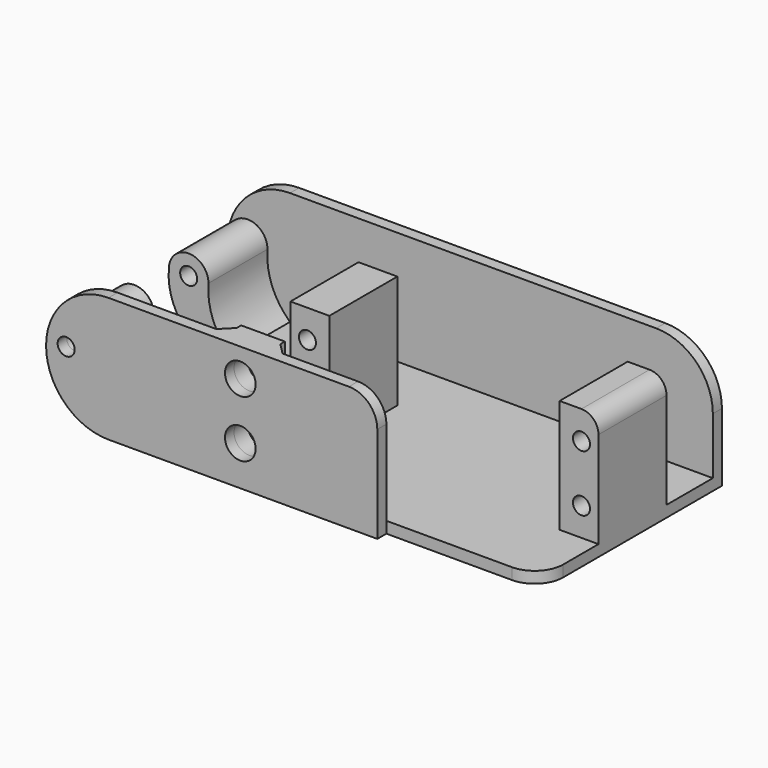
from build123d import *

# Parameters (mm, degrees)
SKETCH_W        = 74.53746
SKETCH_H        = 38
PAD_DEPTH       = 2
SKETCH001_W     = 6.85
SKETCH001_H     = 15
PAD001_DEPTH    = 20
SKETCH002_R     = 1.5
POCKET_DEPTH    = 17
SKETCH003_R     = 1.5
PAD002_DEPTH    = 2
SKETCH004_R     = 2.95
PAD003_DEPTH    = 5
SKETCH005_R     = 2.7
SKETCH005_R_2   = 1.5
PAD004_DEPTH    = 2
SKETCH006_W     = 7.7
SKETCH006_H     = 20
SKETCH006_R     = 2.7
PAD005_DEPTH    = 3
SKETCH007_R     = 1.5
PAD006_DEPTH    = 13
SKETCH008_R     = 1.5
PAD007_DEPTH    = 13
FILLET_R        = 3
FILLET001_R     = 5
FILLET002_R     = 1
CHAMFER_SIZE    = 2
CHAMFER001_SIZE = 2


with BuildPart() as body:
    # Sketch → Pad (new body)
    with BuildSketch(Plane.XY):
        Rectangle(SKETCH_W, SKETCH_H)
    extrude(amount=PAD_DEPTH)

    # Sketch001 (on Face6 of Pad) → Pad001 (join)
    with BuildSketch(Plane.XY.offset(2)):
        with Locations((33.84373, -1.3)):
            Rectangle(SKETCH001_W, SKETCH001_H)
        with Locations((-13.60627, -1.3)):
            Rectangle(SKETCH001_W, SKETCH001_H)
    extrude(amount=PAD001_DEPTH)

    # Sketch002 (on Face12 of Pad001) → Pocket (cut)
    with BuildSketch(Plane.XZ.offset(8.8)):
        with Locations((-14.03127, 17)):
            Circle(SKETCH002_R)
        with Locations((-14.03127, 7)):
            Circle(SKETCH002_R)
        with Locations((34.26873, 17)):
            Circle(SKETCH002_R)
        with Locations((34.26873, 7)):
            Circle(SKETCH002_R)
    extrude(amount=-POCKET_DEPTH, mode=Mode.SUBTRACT)

    # Sketch003 (on Face6 of Pocket) → Pad002 (join)
    with BuildSketch(Plane.XZ.offset(19)):
        with BuildLine():
            Line((37.26873, 0), (-37.26873, 0))
            ThreePointArc((-37.26873, 22), (-48.26873, 11), (-37.26873, 0))
            Line((-37.26873, 22), (27.26873, 22))
            ThreePointArc((37.26873, 12), (34.339798, 19.071068), (27.26873, 22))
            Line((37.26873, 12), (37.26873, 0))
        make_face()
        with Locations((-44.73127, 12)):
            Circle(SKETCH003_R, mode=Mode.SUBTRACT)
    extrude(amount=PAD002_DEPTH)

    # Sketch004 (on Face21 of Pad002) → Pad003 (join)
    with BuildSketch(Plane.XZ.offset(21)):
        with Locations((20.26873, 12)):
            Circle(SKETCH004_R)
    extrude(amount=PAD003_DEPTH)

    # Sketch005 (on Face1 of Pad003) → Pad004 (join)
    with BuildSketch(Plane(origin=(0, 19, 0), x_dir=(-1, 0, 0), z_dir=(0, 1, 0))):
        with BuildLine():
            Line((37.26873, 22), (-5.11873, 22))
            ThreePointArc((-5.11873, 22), (-8.654264, 20.535534), (-10.11873, 17))
            Line((-10.11873, 17), (-10.11873, 0))
            Line((-10.11873, 0), (37.26873, 0))
            ThreePointArc((37.26873, 0), (48.26873, 11), (37.26873, 22))
        make_face()
        with Locations((14.03127, 17)):
            Circle(SKETCH005_R, mode=Mode.SUBTRACT)
        with Locations((14.03127, 7)):
            Circle(SKETCH005_R, mode=Mode.SUBTRACT)
        with Locations((44.73127, 12)):
            Circle(SKETCH005_R_2, mode=Mode.SUBTRACT)
    extrude(amount=PAD004_DEPTH)

    # Sketch006 (on Face11 of Pad004) → Pad005 (join)
    with BuildSketch(Plane.XZ.offset(-19)):
        with Locations((-14.03127, 12)):
            Rectangle(SKETCH006_W, SKETCH006_H)
        with Locations((-14.03127, 7)):
            Circle(SKETCH006_R, mode=Mode.SUBTRACT)
        with Locations((-14.03127, 17)):
            Circle(SKETCH006_R, mode=Mode.SUBTRACT)
    extrude(amount=PAD005_DEPTH)

    # Sketch007 (on Face11 of Pad005) → Pad006 (join)
    with BuildSketch(Plane.XZ.offset(-19)):
        with BuildLine():
            ThreePointArc((-41.239359, 12.000001), (-40.426624, 6.534413), (-37.26873, 2))
            Line((-37.26873, 2), (-37.26873, 0))
            ThreePointArc((-48.223181, 11.999999), (-45.392768, 3.583801), (-37.26873, 0))
            ThreePointArc((-41.239359, 12.000001), (-44.731271, 15.491911), (-48.223181, 11.999999))
        make_face()
        with Locations((-44.73127, 12)):
            Circle(SKETCH007_R, mode=Mode.SUBTRACT)
    extrude(amount=PAD006_DEPTH)

    # Sketch008 (on Face20 of Pad006) → Pad007 (join)
    with BuildSketch(Plane(origin=(0, -19, 0), x_dir=(-1, 0, 0), z_dir=(0, 1, 0))):
        with BuildLine():
            Line((37.26873, 2), (37.26873, 0))
            ThreePointArc((37.26873, 0), (45.392768, 3.583802), (48.223181, 12))
            ThreePointArc((48.223181, 12), (44.73127, 15.491911), (41.239359, 12))
            ThreePointArc((37.26873, 2), (40.426624, 6.534412), (41.239359, 12))
        make_face()
        with Locations((44.73127, 12)):
            Circle(SKETCH008_R, mode=Mode.SUBTRACT)
    extrude(amount=PAD007_DEPTH)

    # Fillet
    fillet_edges = [body.edges().sort_by_distance(p)[0] for p in [
        (37.26873, -1.3, 22),
    ]]
    fillet(fillet_edges, radius=FILLET_R)

    # Fillet001
    fillet001_edges = [body.edges().sort_by_distance(p)[0] for p in [
        (37.26873, 19, 1),
    ]]
    fillet(fillet001_edges, radius=FILLET001_R)

    # Fillet002
    fillet002_edges = [body.edges().sort_by_distance(p)[0] for p in [
        (17.31873, -26, 12),
    ]]
    fillet(fillet002_edges, radius=FILLET002_R)

    # Chamfer
    chamfer_edges = [body.edges().sort_by_distance(p)[0] for p in [
        (-10.18127, 19, 12),
    ]]
    chamfer(chamfer_edges, length=CHAMFER_SIZE)

    # Chamfer001
    chamfer001_edges = [body.edges().sort_by_distance(p)[0] for p in [
        (-17.88127, 19, 12),
    ]]
    chamfer(chamfer001_edges, length=CHAMFER001_SIZE)


with BuildPart() as part_mirroring:
    # Part__Mirroring: instance of Body
    add(body.part.mirror(Plane(origin=(0, 0, 0), x_dir=(1, 0, 0), z_dir=(0, 1, 0))))


solid = part_mirroring.part
